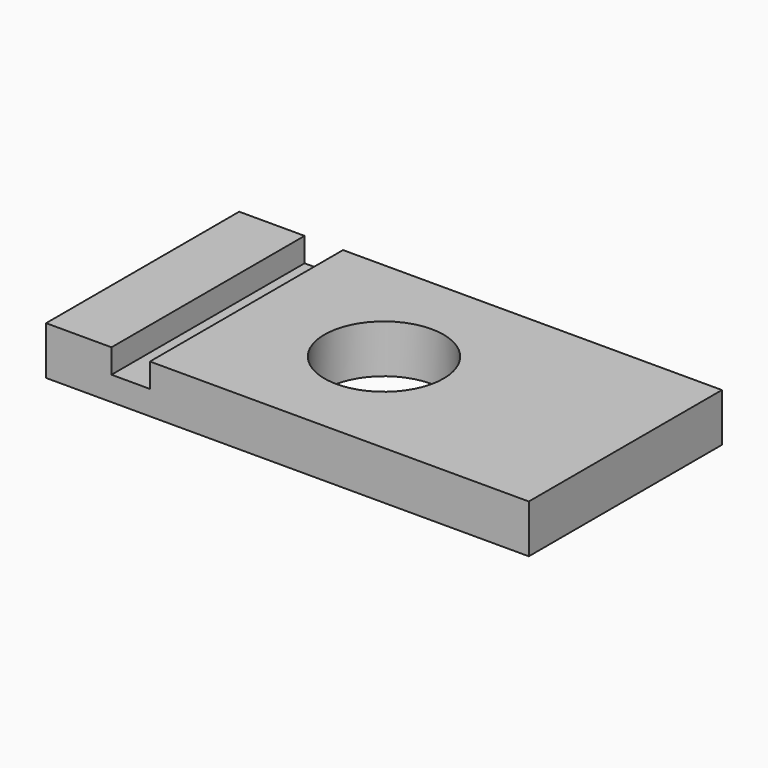
from build123d import *

# Parameters (mm, degrees)
F0_W      = 508
F0_H      = 254
F0_R      = 62.653986
F1_DEPTH  = 25.4
F1_FACE_W = 508
F1_FACE_H = 254
F1_FACE_R = 62.653986
F2_DEPTH  = 25.4
F3_W      = 40.465146
F3_H      = 254
F4_DEPTH  = 25.4


with BuildPart() as f1:
    # F0 (on Top) → F1 (new body)
    with BuildSketch(Plane.XY):
        with Locations((108.643128, 113.547525)):
            Rectangle(F0_W, F0_H)
        with Locations((108.643128, 113.547525)):
            Circle(F0_R, mode=Mode.SUBTRACT)
    extrude(amount=F1_DEPTH)

    # F1_face (on face) → F2 (join)
    with BuildSketch(Plane(origin=(108.643128, 113.547525, 25.4), x_dir=(1, 0, 0), z_dir=(0, 0, 1))):
        Rectangle(F1_FACE_W, F1_FACE_H)
        Circle(F1_FACE_R, mode=Mode.SUBTRACT)
    extrude(amount=F2_DEPTH)

    # F3 (on face) → F4 (cut)
    with BuildSketch(Plane.XY.offset(50.8)):
        with Locations((-56.300491, 113.547525)):
            Rectangle(F3_W, F3_H)
    extrude(amount=-F4_DEPTH, mode=Mode.SUBTRACT)


solid = f1.part
